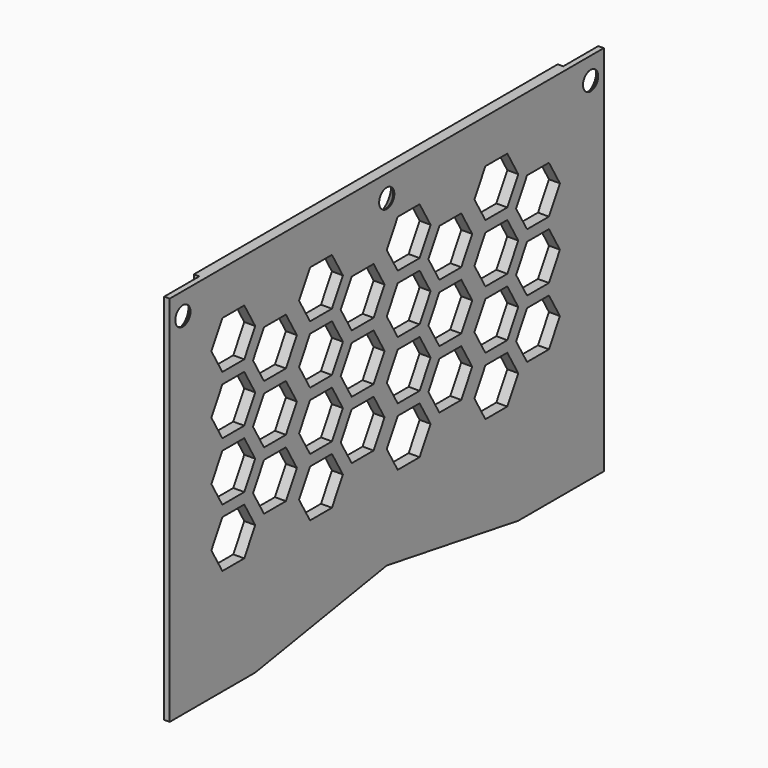
from build123d import *

# Parameters (mm, degrees)
F1_DEPTH       = 2.54
F3_D           = 4.4
F3_DEPTH       = 37.1856
F3_CSINK_D     = 8.96
F3_CSINK_ANGLE = 90
F3_TIP         = 1.3218933619
F4_W           = 26.1344808769
F4_H           = 86.36
F5_DEPTH       = 1.27
F7_DEPTH       = 25.4


with BuildPart() as f1:
    # F0 (on Right) → F1 (new body)
    with BuildSketch(Plane.YZ):
        Polygon((62.865, 0), (-62.865, 0), (-60.325, -86.36), (60.325, -86.36), align=None)
        Polygon((-60.325, -86.36), (-62.865, 0), (-62.865, -86.36), align=None)
        Polygon((62.865, -86.36), (62.865, 0), (60.325, -86.36), align=None)
    extrude(amount=F1_DEPTH)

    # F3
    with Locations(Plane(origin=(0, 0, 0), x_dir=(0, -1, 0), z_dir=(-1, 0, 0))):
        with Locations((-59.055, -5.08), (0, -5.08), (59.055, -5.08)):
            CounterSinkHole(F3_D / 2, F3_CSINK_D / 2, depth=F3_DEPTH, counter_sink_angle=F3_CSINK_ANGLE)
            with Locations((0, 0, -(F3_DEPTH + F3_TIP / 2))):  # 118° drill point
                Cone(0, F3_D / 2, F3_TIP, mode=Mode.SUBTRACT)

    # F4 (on face) → F5 (cut)
    with BuildSketch(Plane(origin=(0, 0, 0), x_dir=(0, -1, 0), z_dir=(-1, 0, 0))):
        with Locations((-65.7722404385, -43.18)):
            Rectangle(F4_W, F4_H)
        with Locations((65.7722404385, -43.18)):
            Rectangle(F4_W, F4_H)
    extrude(amount=-F5_DEPTH, mode=Mode.SUBTRACT)

    # F6 (on face) → F7 (cut)
    with BuildSketch(Plane(origin=(0, 0, 0), x_dir=(0, -1, 0), z_dir=(-1, 0, 0))):
        Polygon((0, -80.01), (-38.1, -86.36), (38.1, -86.36), align=None)
        Polygon((-40.64, -16.929261314), (-46.99, -16.929261314), (-50.165, -22.4285226281), (-46.99, -27.9277839421), (-40.64, -27.9277839421), (-37.465, -22.4285226281), align=None)
        Polygon((-40.64, -30.4677839421), (-46.99, -30.4677839421), (-50.165, -35.9670452561), (-46.99, -41.4663065701), (-40.64, -41.4663065701), (-37.465, -35.9670452561), align=None)
        Polygon((-40.64, -44.0063065701), (-46.99, -44.0063065701), (-50.165, -49.5055678841), (-46.99, -55.0048291981), (-40.64, -55.0048291981), (-39.0525, -52.2551985411), (-37.465, -49.5055678841), align=None)
        Polygon((-34.925, -37.2370452561), (-38.1, -42.7363065701), (-34.925, -48.2355678841), (-28.575, -48.2355678841), (-25.4, -42.7363065701), (-28.575, -37.2370452561), align=None)
        Polygon((-34.925, -34.6970452561), (-28.575, -34.6970452561), (-25.4, -29.1977839421), (-28.575, -23.698522628), (-34.925, -23.698522628), (-38.1, -29.1977839421), align=None)
        Polygon((-34.925, -21.1585226281), (-28.575, -21.1585226281), (-25.4, -15.659261314), (-28.575, -10.16), (-34.925, -10.16), (-38.1, -15.659261314), align=None)
        Polygon((-28.575, -50.7755678841), (-34.925, -50.7755678841), (-38.1, -56.2748291981), (-34.925, -61.7740905122), (-28.575, -61.7740905122), (-25.4, -56.2748291981), align=None)
        Polygon((-12.7, -29.1977839421), (-9.525, -34.6970452561), (-3.175, -34.6970452561), (0, -29.1977839421), (-3.175, -23.698522628), (-9.525, -23.698522628), align=None)
        Polygon((-12.065, -35.9670452561), (-15.24, -30.4677839421), (-21.59, -30.4677839421), (-24.765, -35.9670452561), (-21.59, -41.4663065701), (-15.24, -41.4663065701), align=None)
        Polygon((-3.175, -61.7740905122), (0, -56.2748291981), (-3.175, -50.7755678841), (-9.525, -50.7755678841), (-12.7, -56.2748291981), (-9.525, -61.7740905122), align=None)
        Polygon((-9.525, -10.16), (-12.7, -15.659261314), (-9.525, -21.1585226281), (-3.175, -21.1585226281), (0, -15.659261314), (-3.175, -10.16), align=None)
        Polygon((-12.065, -49.5055678841), (-15.24, -44.0063065701), (-21.59, -44.0063065701), (-24.765, -49.5055678841), (-21.59, -55.0048291981), (-15.24, -55.0048291981), (-13.6525, -52.2551985411), align=None)
        Polygon((-15.24, -27.9277839421), (-12.065, -22.4285226281), (-15.24, -16.929261314), (-21.59, -16.929261314), (-24.765, -22.4285226281), (-21.59, -27.9277839421), align=None)
        Polygon((-12.7, -42.7363065701), (-9.525, -48.2355678841), (-3.175, -48.2355678841), (0, -42.7363065701), (-3.175, -37.2370452561), (-9.525, -37.2370452561), align=None)
        Polygon((12.7, -29.1977839421), (15.875, -34.6970452561), (22.225, -34.6970452561), (25.4, -29.1977839421), (22.225, -23.698522628), (15.875, -23.698522628), align=None)
        Polygon((13.335, -35.9670452561), (10.16, -30.4677839421), (3.81, -30.4677839421), (0.635, -35.9670452561), (3.81, -41.4663065701), (10.16, -41.4663065701), align=None)
        Polygon((22.225, -61.7740905122), (25.4, -56.2748291981), (22.225, -50.7755678841), (15.875, -50.7755678841), (12.7, -56.2748291981), (15.875, -61.7740905122), align=None)
        Polygon((15.875, -10.16), (12.7, -15.659261314), (15.875, -21.1585226281), (22.225, -21.1585226281), (25.4, -15.659261314), (22.225, -10.16), align=None)
        Polygon((13.335, -49.5055678841), (10.16, -44.0063065701), (3.81, -44.0063065701), (0.635, -49.5055678841), (3.81, -55.0048291981), (10.16, -55.0048291981), (11.7475, -52.2551985411), align=None)
        Polygon((10.16, -27.9277839421), (13.335, -22.4285226281), (10.16, -16.929261314), (3.81, -16.929261314), (0.635, -22.4285226281), (3.81, -27.9277839421), align=None)
        Polygon((12.7, -42.7363065701), (15.875, -48.2355678841), (22.225, -48.2355678841), (25.4, -42.7363065701), (22.225, -37.2370452561), (15.875, -37.2370452561), align=None)
        Polygon((38.1, -29.1977839421), (41.275, -34.6970452561), (47.625, -34.6970452561), (50.8, -29.1977839421), (47.625, -23.698522628), (41.275, -23.698522628), align=None)
        Polygon((38.735, -35.9670452561), (35.56, -30.4677839421), (29.21, -30.4677839421), (26.035, -35.9670452561), (29.21, -41.4663065701), (35.56, -41.4663065701), align=None)
        Polygon((47.625, -61.7740905122), (50.8, -56.2748291981), (47.625, -50.7755678841), (41.275, -50.7755678841), (38.1, -56.2748291981), (41.275, -61.7740905122), align=None)
        Polygon((41.275, -10.16), (38.1, -15.659261314), (41.275, -21.1585226281), (47.625, -21.1585226281), (50.8, -15.659261314), (47.625, -10.16), align=None)
        Polygon((38.735, -49.5055678841), (35.56, -44.0063065701), (29.21, -44.0063065701), (26.035, -49.5055678841), (29.21, -55.0048291981), (35.56, -55.0048291981), (37.1475, -52.2551985411), align=None)
        Polygon((35.56, -27.9277839421), (38.735, -22.4285226281), (35.56, -16.929261314), (29.21, -16.929261314), (26.035, -22.4285226281), (29.21, -27.9277839421), align=None)
        Polygon((38.1, -42.7363065701), (41.275, -48.2355678841), (47.625, -48.2355678841), (50.8, -42.7363065701), (47.625, -37.2370452561), (41.275, -37.2370452561), align=None)
    extrude(amount=-F7_DEPTH, mode=Mode.SUBTRACT)


solid = f1.part
